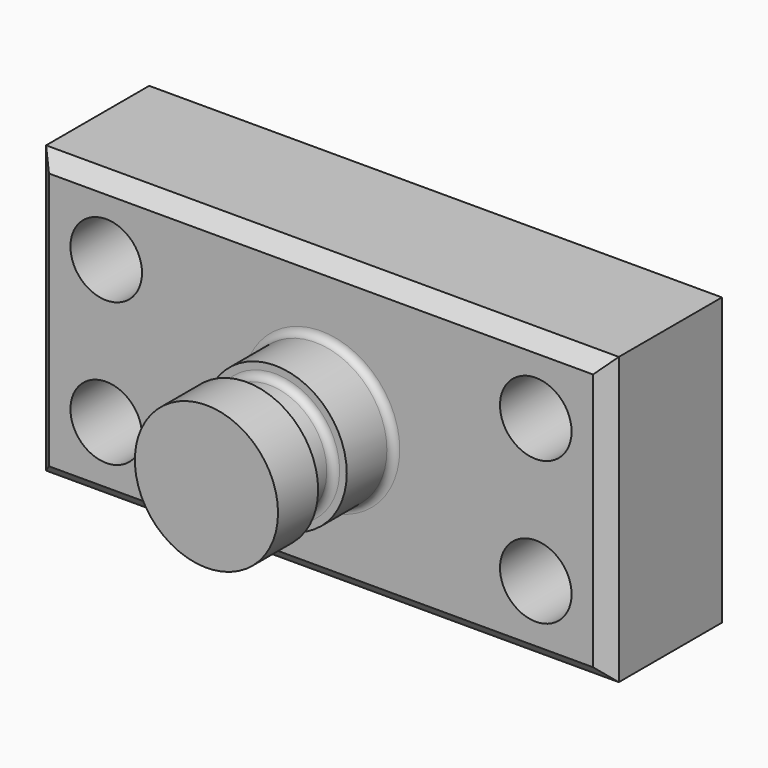
from build123d import *

# Parameters (mm, degrees)
F0_W     = 101.6
F0_H     = 50.8
F1_DEPTH = 25.4
F2_R     = 6.35
F3_DEPTH = 25.401
F4_W     = 12.7
F4_H     = 25.4
F6_W     = 8.301848
F6_H     = 6.35
F8_R     = 1.27
F9_SIZE  = 2.54


with BuildPart() as f1:
    # F0 (on Front) → F1 (new body)
    with BuildSketch(Plane.XZ):
        Rectangle(F0_W, F0_H)
    extrude(amount=F1_DEPTH)

    # F2 (on face) → F3 (cut, through all)
    with BuildSketch(Plane.XZ.offset(25.4)):
        with Locations((-38.1, 12.7)):
            Circle(F2_R)
        with Locations((-38.1, -12.7)):
            Circle(F2_R)
        with Locations((38.1, 12.7)):
            Circle(F2_R)
        with Locations((38.1, -12.7)):
            Circle(F2_R)
    extrude(amount=-F3_DEPTH, mode=Mode.SUBTRACT)

    # F4 (on Top) → F5 (revolve)
    with BuildSketch(Plane.XY):
        with Locations((6.35, -38.1)):
            Rectangle(F4_W, F4_H)
    revolve(axis=Axis((0, -38.1, 0), (0, 1, 0)))

    # F6 (on Top) → F7 (revolve, cut)
    with BuildSketch(Plane.XY):
        with Locations((-14.310924, -38.735)):
            Rectangle(F6_W, F6_H)
    revolve(axis=Axis((0, -40.756147, 0), (0, -1, 0)), mode=Mode.SUBTRACT)

    # F8
    f8_edges = [f1.edges().sort_by_distance(p)[0] for p in [
        (-12.7, -25.4, 0),
        (10.16, -35.56, 0),
        (10.16, -41.91, 0),
    ]]
    fillet(f8_edges, radius=F8_R)

    # F9
    f9_edges = [f1.edges().sort_by_distance(p)[0] for p in [
        (0, -25.4, 25.4),
        (-50.8, -25.4, 0),
        (0, -25.4, -25.4),
        (50.8, -25.4, 0),
    ]]
    chamfer(f9_edges, length=F9_SIZE)


solid = f1.part
